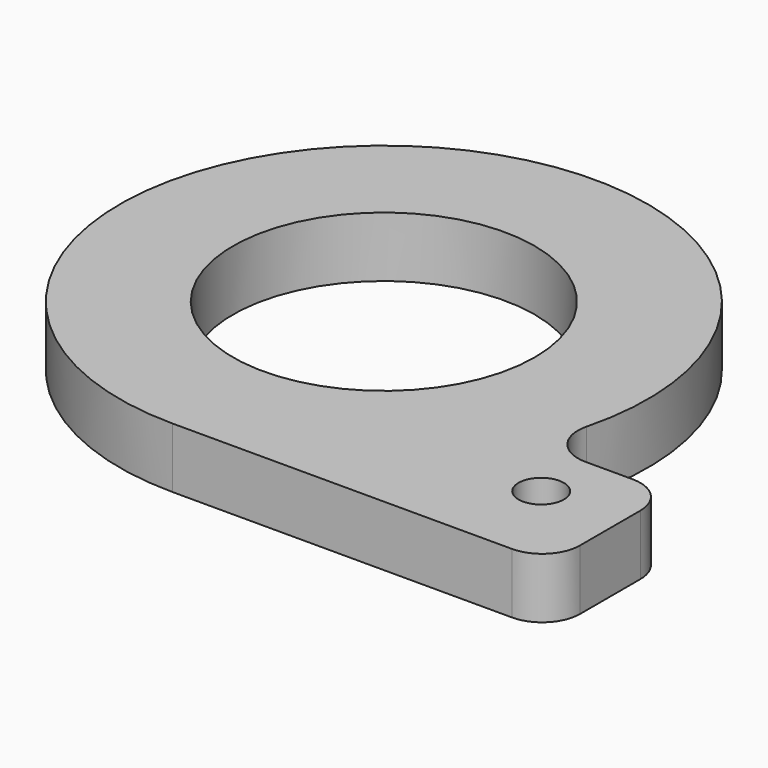
from build123d import *

# Parameters (mm, degrees)
F0_R     = 20
F1_DEPTH = 8
F2_R     = 5
F3_R     = 3
F4_DEPTH = 8


with BuildPart() as f1:
    # F0 (on Top) → F1 (new body)
    with BuildSketch(Plane.XY):
        with BuildLine():
            Line((50, -15), (31.622777, -15))
            ThreePointArc((31.622777, -15), (-18.708287, 29.580399), (0, -35))
            Line((0, -35), (50, -35))
            Line((50, -35), (50, -15))
        make_face()
        Circle(F0_R, mode=Mode.SUBTRACT)
    extrude(amount=F1_DEPTH)

    # F2
    f2_edges = [f1.edges().sort_by_distance(p)[0] for p in [
        (31.622777, -15, 4),
        (50, -15, 4),
        (50, -35, 4),
    ]]
    fillet(f2_edges, radius=F2_R)

    # F3 (on face) → F4 (cut, through all)
    with BuildSketch(Plane.XY.offset(8)):
        with Locations((39.258757, -23)):
            Circle(F3_R)
    extrude(amount=-F4_DEPTH, mode=Mode.SUBTRACT)


solid = f1.part
